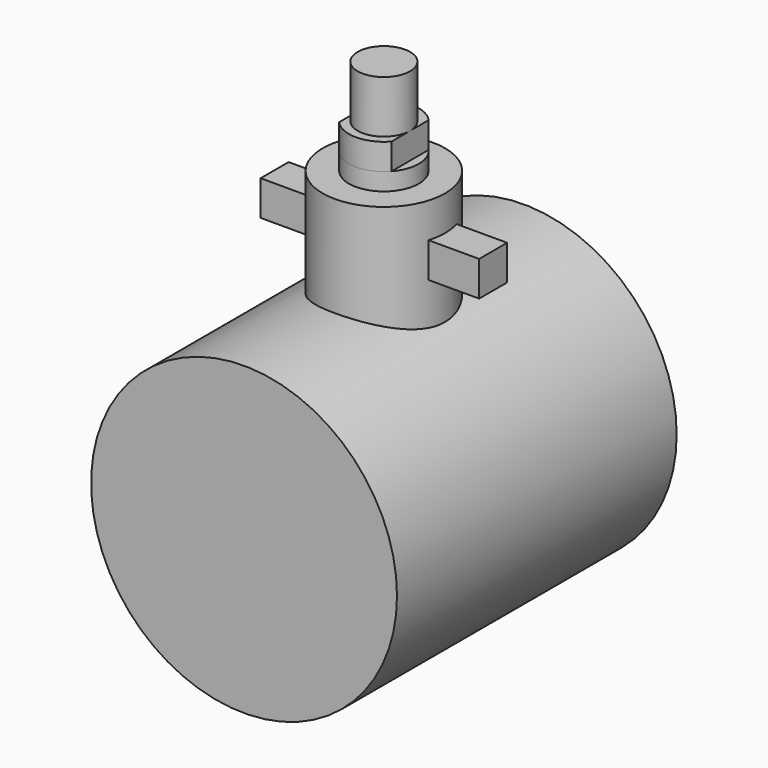
from build123d import *

# Parameters (mm, degrees)
F0_R      = 17.5
F1_DEPTH  = 20
F2_R      = 7
F3_DEPTH  = 29
F4_R      = 4
F5_DEPTH  = 2
F7_DEPTH  = 3
F9_DEPTH  = 6
F10_W     = 4
F10_H     = 4
F11_DEPTH = 12.5


with BuildPart() as f1:
    # F0 (on Front) → F1 (new body, symmetric)
    with BuildSketch(Plane.XZ):
        Circle(F0_R)
    extrude(amount=F1_DEPTH, both=True)

    # F2 (on Top) → F3 (join)
    with BuildSketch(Plane.XY):
        Circle(F2_R)
    extrude(amount=F3_DEPTH)

    # F4 (on face) → F5 (join)
    with BuildSketch(Plane.XY.offset(29)):
        Circle(F4_R)
    extrude(amount=F5_DEPTH)

    # F6 (on face) → F7 (join)
    with BuildSketch(Plane.XY.offset(31)):
        with BuildLine():
            Line((-3, 2.6457513111), (-3, -2.6457513111))
            ThreePointArc((-3, -2.6457513111), (0, -4), (3, -2.6457513111))
            Line((3, -2.6457513111), (3, 2.6457513111))
            ThreePointArc((3, 2.6457513111), (0, 4), (-3, 2.6457513111))
        make_face()
    extrude(amount=F7_DEPTH)

    # F8 (on face) → F9 (join)
    with BuildSketch(Plane.XY.offset(34)):
        with BuildLine():
            ThreePointArc((-3, 0), (0, -3), (3, 0))
            ThreePointArc((3, 0), (0, 3), (-3, 0))
        make_face()
    extrude(amount=F9_DEPTH)

    # F10 (on Right) → F11 (join, symmetric)
    with BuildSketch(Plane.YZ):
        with Locations((0, 23)):
            Rectangle(F10_W, F10_H)
    extrude(amount=F11_DEPTH, both=True)


solid = f1.part
